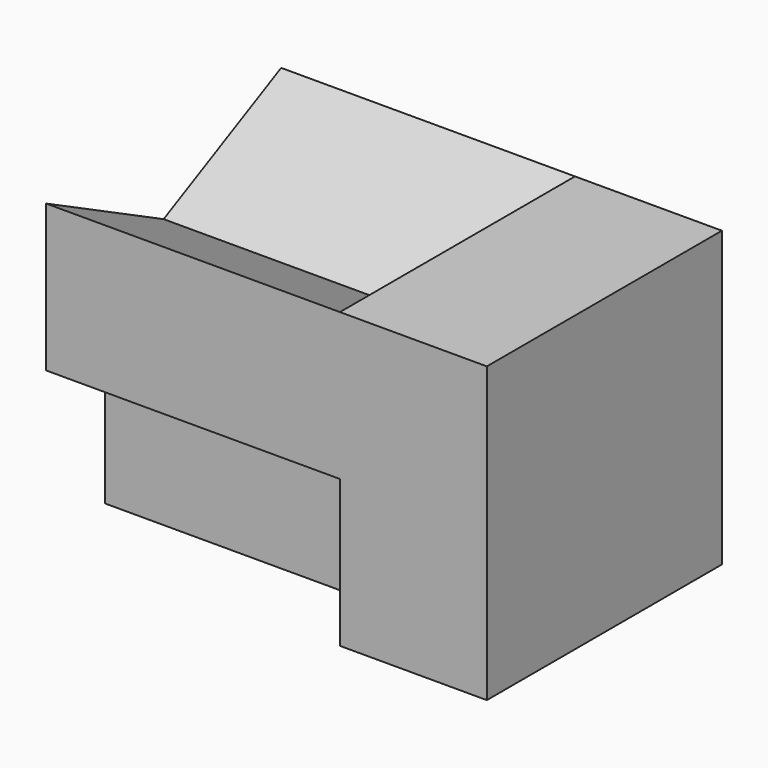
from build123d import *

# Parameters (mm, degrees)
F0_W     = 60
F0_H     = 40
F1_DEPTH = 40
F2_W     = 10
F2_H     = 20
F3_DEPTH = 40
F5_DEPTH = 40


with BuildPart() as f1:
    # F0 (on Front) → F1 (new body)
    with BuildSketch(Plane.XZ):
        with Locations((-7.386366, 14.628025)):
            Rectangle(F0_W, F0_H)
    extrude(amount=F1_DEPTH)

    # F2 (on face) → F3 (cut)
    with BuildSketch(Plane(origin=(-37.386366, 0, 0), x_dir=(0, -1, 0), z_dir=(-1, 0, 0))):
        with Locations((35, 4.628025)):
            Rectangle(F2_W, F2_H)
    extrude(amount=-F3_DEPTH, mode=Mode.SUBTRACT)

    # F4 (on face) → F5 (cut)
    with BuildSketch(Plane(origin=(-37.386366, 0, 0), x_dir=(0, -1, 0), z_dir=(-1, 0, 0))):
        Polygon((40, 34.628025), (0, 34.628025), (20, 24.628025), align=None)
    extrude(amount=-F5_DEPTH, mode=Mode.SUBTRACT)


solid = f1.part
